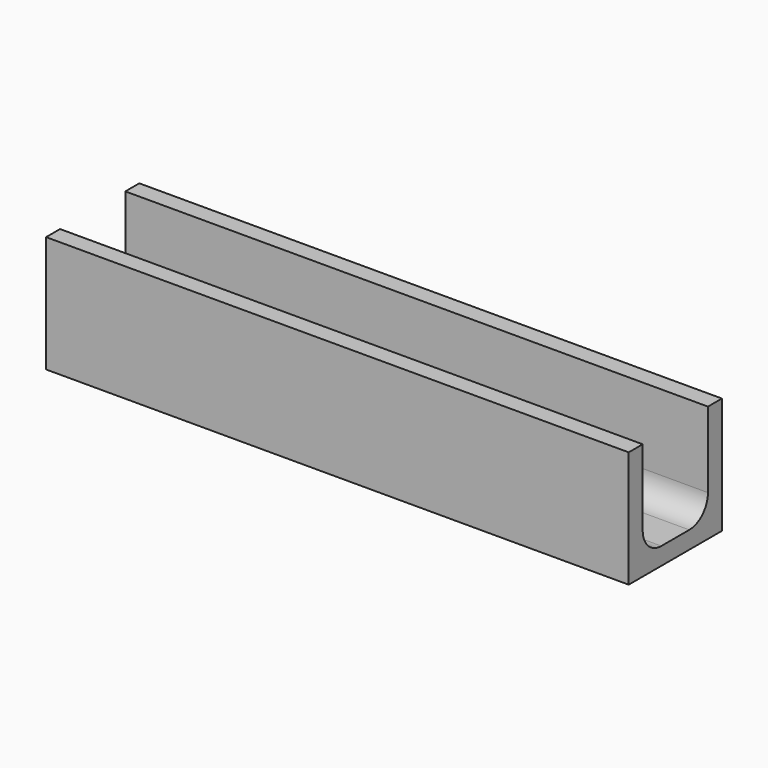
from build123d import *

# Parameters (mm, degrees)
SKETCH_W     = 10
SKETCH_H     = 10
PAD_DEPTH    = 50
POCKET_DEPTH = 50.001


with BuildPart() as part:
    # Sketch → Pad (new body)
    with BuildSketch(Plane.YZ):
        with Locations((5, 5)):
            Rectangle(SKETCH_W, SKETCH_H)
    extrude(amount=PAD_DEPTH)

    # Sketch001 (on Face5 of Pad) → Pocket (cut, through all)
    with BuildSketch(Plane(origin=(0, 0, 0), x_dir=(0, 1, 0), z_dir=(-1, 0, 0))):
        with BuildLine():
            Line((8.5, -10), (8.5, -3.5))
            ThreePointArc((8.5, -3.5), (7.914214, -2.085786), (6.5, -1.5))
            Line((6.5, -1.5), (3.5, -1.5))
            ThreePointArc((3.5, -1.5), (2.085786, -2.085786), (1.5, -3.5))
            Line((1.5, -3.5), (1.5, -10))
            Line((1.5, -10), (8.5, -10))
        make_face()
    extrude(amount=-POCKET_DEPTH, mode=Mode.SUBTRACT)


solid = part.part
